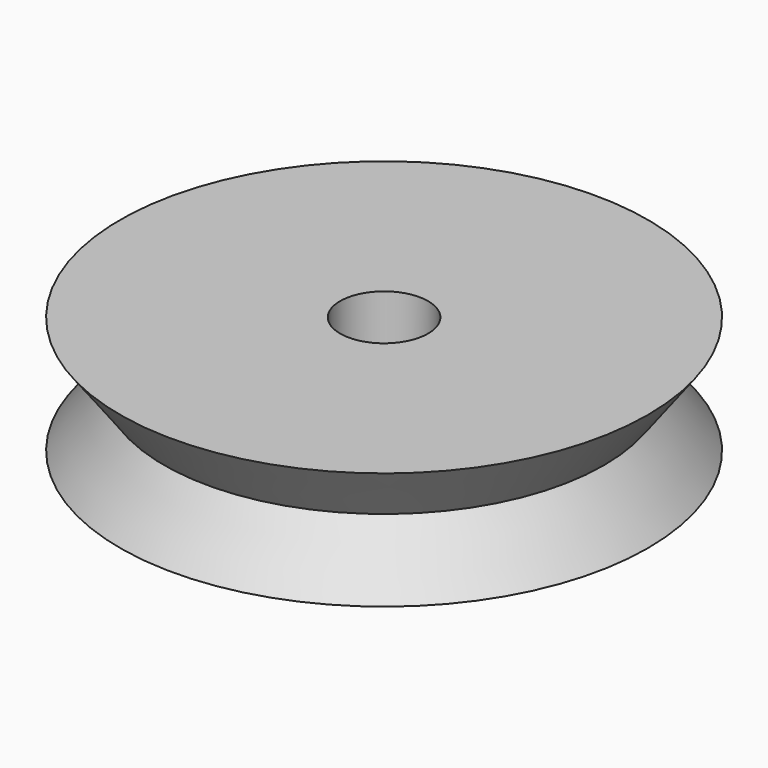
from build123d import *


with BuildPart() as part:
    # Sketch → Revolution (revolve)
    with BuildSketch(Plane.XZ):
        Polygon((1.5, 0), (9, 0), (7.5, 2), (9, 4), (1.5, 4), align=None)
    revolve(axis=Axis((0, 0, 0), (0, 0, 1)))


solid = part.part
